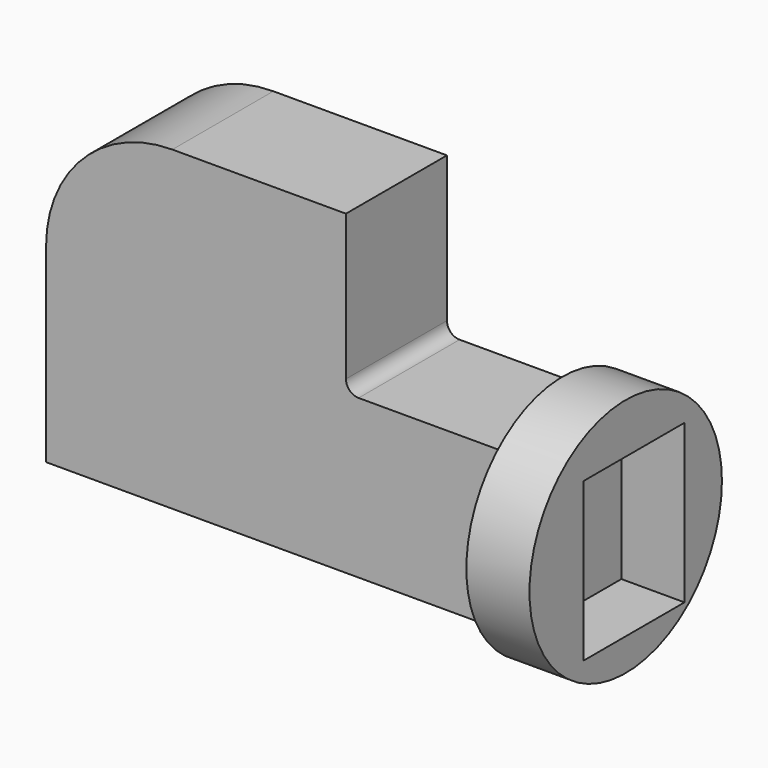
from build123d import *

# Parameters (mm, degrees)
F1_DEPTH = 50.8
F2_R     = 5.08
F3_R     = 48.38921
F3_W     = 50.8
F3_H     = 63.620596
F4_DEPTH = 25.4


with BuildPart() as f1:
    # F0 (on Front) → F1 (new body)
    with BuildSketch(Plane.XZ):
        with BuildLine():
            Line((62.343281, 100.563001), (-7.50485, 100.563001))
            ThreePointArc((-7.50485, 100.563001), (-43.425874, 85.684025), (-58.30485, 49.763001))
            Line((-58.30485, 49.763001), (-58.30485, -26.678191))
            Line((-58.30485, -26.678191), (62.343281, -26.678191))
            Line((62.343281, -26.678191), (132.522136, -26.678191))
            Line((132.522136, -26.678191), (132.522136, 36.942405))
            Line((132.522136, 36.942405), (62.343281, 36.942405))
            Line((62.343281, 36.942405), (62.343281, 100.563001))
        make_face()
    extrude(amount=F1_DEPTH)

    # F2
    f2_edges = [f1.edges().sort_by_distance(p)[0] for p in [
        (62.343281, -25.4, 36.942405),
    ]]
    fillet(f2_edges, radius=F2_R)


with BuildPart() as f4:
    # F3 (on face) → F4 (new body)
    with BuildSketch(Plane.YZ.offset(132.522136)):
        with Locations((-29.576318, 8.665922)):
            Circle(F3_R)
        with Locations((-25.4, 5.132107)):
            Rectangle(F3_W, F3_H, mode=Mode.SUBTRACT)
    extrude(amount=F4_DEPTH)


solid = Compound([f1.part, f4.part])
